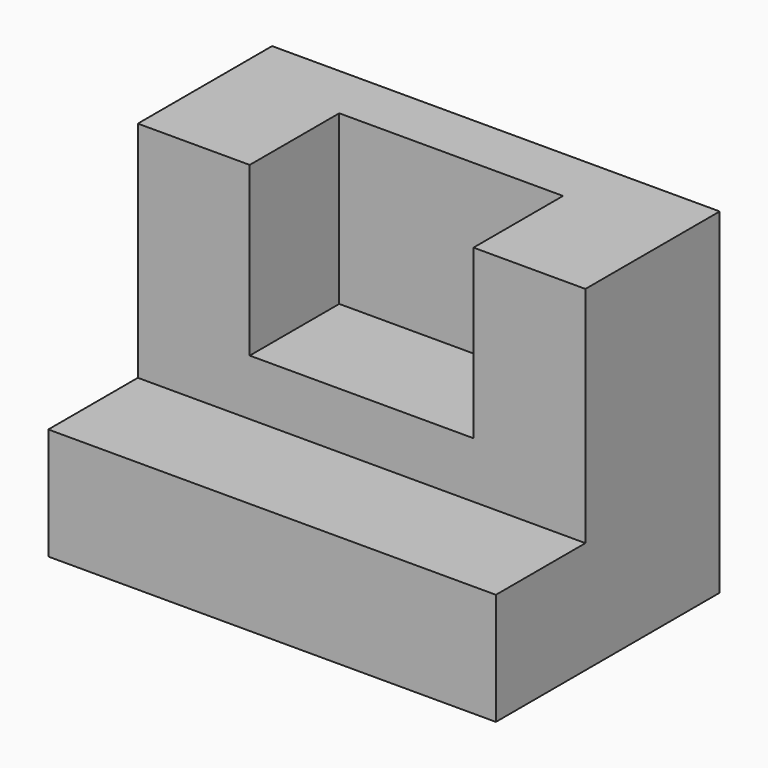
from build123d import *

# Parameters (mm, degrees)
F0_W     = 101.6
F0_H     = 63.5
F1_DEPTH = 25.4
F3_DEPTH = 50.8
F4_W     = 50.8
F4_H     = 25.4
F5_DEPTH = 12.7


with BuildPart() as f1:
    # F0 (on Top) → F1 (new body)
    with BuildSketch(Plane.XY):
        with Locations((6.964119, -1.651216)):
            Rectangle(F0_W, F0_H)
    extrude(amount=F1_DEPTH)

    # F2 (on face) → F3 (join)
    with BuildSketch(Plane.XY.offset(25.4)):
        Polygon((57.764119, 30.098784), (-43.835881, 30.098784), (-43.835881, -8.001216), (-18.435881, -8.001216), (-18.435881, 17.398784), (32.364119, 17.398784), (32.364119, -8.001216), (57.764119, -8.001216), align=None)
    extrude(amount=F3_DEPTH)

    # F4 (on face) → F5 (join)
    with BuildSketch(Plane.XY.offset(25.4)):
        with Locations((6.964119, 4.698784)):
            Rectangle(F4_W, F4_H)
    extrude(amount=F5_DEPTH)


solid = f1.part
